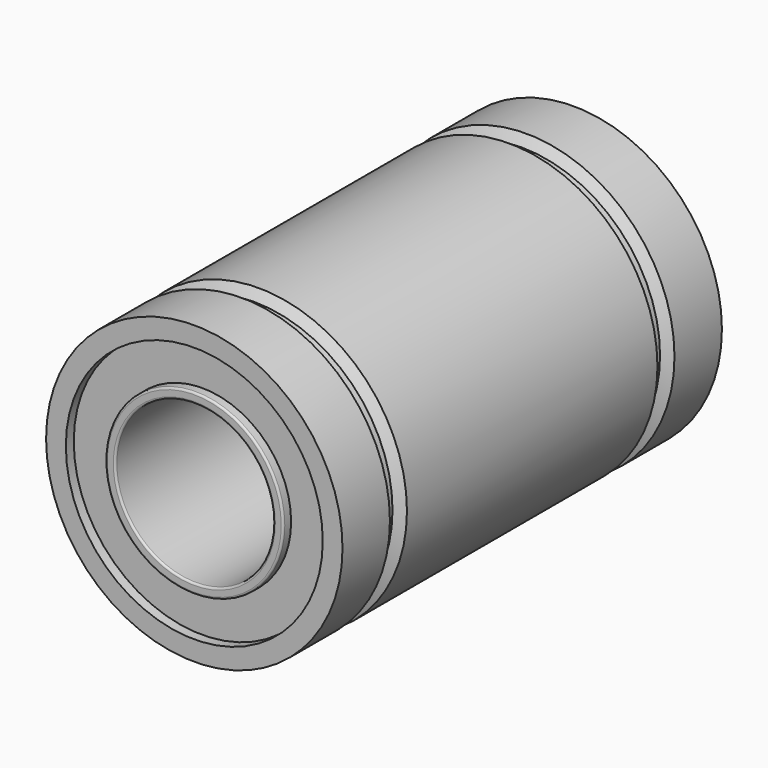
from build123d import *

# Parameters (mm, degrees)
SKETCH_R      = 4.5
SKETCH_R_2    = 4
PAD_DEPTH     = 12
FILLET001_R   = 0.1
SKETCH001_R   = 6.5
SKETCH001_R_2 = 4.5
PAD001_DEPTH  = 11.5


with BuildPart() as body:
    # Sketch → Pad (new body, symmetric)
    with BuildSketch(Plane.XZ):
        Circle(SKETCH_R)
        Circle(SKETCH_R_2, mode=Mode.SUBTRACT)
    extrude(amount=PAD_DEPTH, both=True)

    # Fillet001
    fillet001_edges = [body.edges().sort_by_distance(p)[0] for p in [
        (-4.5, 12, 0),
        (-4, 12, 0),
        (-4.5, -12, 0),
        (-4, -12, 0),
    ]]
    fillet(fillet001_edges, radius=FILLET001_R)


with BuildPart() as body001:
    # Sketch001 → Pad001 (new body, symmetric)
    with BuildSketch(Plane.XZ):
        Circle(SKETCH001_R)
        Circle(SKETCH001_R_2, mode=Mode.SUBTRACT)
    extrude(amount=PAD001_DEPTH, both=True)


with BuildPart() as body002:
    # Sketch002 → Revolution (revolve)
    with BuildSketch(Plane.XY):
        Polygon((6.5, 12), (6.5, -12), (7.5, -12), (7.5, -9), (7, -8.711325), (7, -8.211325), (7.5, -7.92265), (7.5, 7.92265), (7, 8.211325), (7, 8.711325), (7.5, 9), (7.5, 12), align=None)
    revolve(axis=Axis((0, 0, 0), (0, 1, 0)))


solid = Compound([body.part, body001.part, body002.part])
